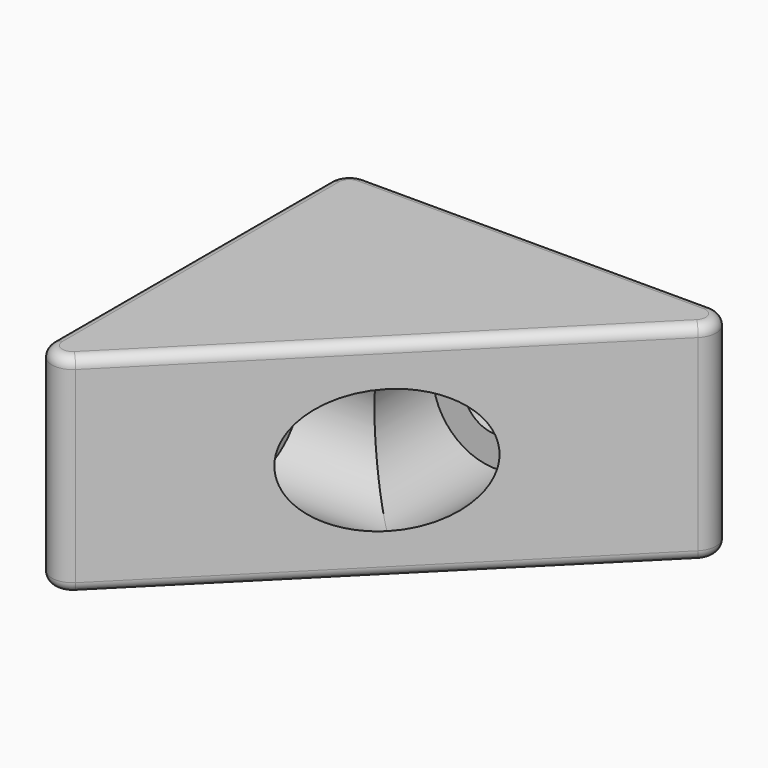
from build123d import *

# Parameters (mm, degrees)
SKETCH_W        = 40
SKETCH_H        = 40
PAD_DEPTH       = 20
SKETCH001_R     = 6
POCKET_DEPTH    = 33
SKETCH002_R     = 3.1
POCKET001_DEPTH = 8
SKETCH003_R     = 6
POCKET002_DEPTH = 33
SKETCH004_R     = 3.1
POCKET003_DEPTH = 8
POCKET004_DEPTH = 25
FILLET_R        = 2
FILLET001_R     = 2
FILLET002_R     = 2
FILLET003_R     = 1
FILLET004_R     = 1


with BuildPart() as part:
    # Sketch → Pad (new body)
    with BuildSketch(Plane.XY):
        with Locations((20, 20)):
            Rectangle(SKETCH_W, SKETCH_H)
    extrude(amount=PAD_DEPTH)

    # Sketch001 → Pocket (cut)
    with BuildSketch(Plane.XZ):
        with Locations((20, 10)):
            Circle(SKETCH001_R)
    extrude(amount=-POCKET_DEPTH, mode=Mode.SUBTRACT)

    # Sketch002 → Pocket001 (cut)
    with BuildSketch(Plane.XZ.offset(-33)):
        with Locations((20, 10)):
            Circle(SKETCH002_R)
    extrude(amount=-POCKET001_DEPTH, mode=Mode.SUBTRACT)

    # Sketch003 → Pocket002 (cut)
    with BuildSketch(Plane.YZ.offset(40)):
        with Locations((20, 10)):
            Circle(SKETCH003_R)
    extrude(amount=-POCKET002_DEPTH, mode=Mode.SUBTRACT)

    # Sketch004 → Pocket003 (cut)
    with BuildSketch(Plane.YZ.offset(7)):
        with Locations((20, 10)):
            Circle(SKETCH004_R)
    extrude(amount=-POCKET003_DEPTH, mode=Mode.SUBTRACT)

    # Sketch005 → Pocket004 (cut)
    with BuildSketch(Plane.XY.offset(20)):
        Polygon((0, 0), (40, 40), (40, 0), align=None)
    extrude(amount=-POCKET004_DEPTH, mode=Mode.SUBTRACT)

    # Fillet
    fillet_edges = [part.edges().sort_by_distance(p)[0] for p in [
        (40, 40, 10),
    ]]
    fillet(fillet_edges, radius=FILLET_R)

    # Fillet001
    fillet001_edges = [part.edges().sort_by_distance(p)[0] for p in [
        (0, 0, 10),
    ]]
    fillet(fillet001_edges, radius=FILLET001_R)

    # Fillet002
    fillet002_edges = [part.edges().sort_by_distance(p)[0] for p in [
        (0, 40, 10),
    ]]
    fillet(fillet002_edges, radius=FILLET002_R)

    # Fillet003
    fillet003_edges = [part.edges().sort_by_distance(p)[0] for p in [
        (0, 21.414214, 0),
        (0.585786, 39.414214, 0),
        (1.234633, 2.980668, 0),
        (18.585786, 40, 0),
        (20, 20, 0),
        (37.019332, 38.765367, 0),
    ]]
    fillet(fillet003_edges, radius=FILLET003_R)

    # Fillet004
    fillet004_edges = [part.edges().sort_by_distance(p)[0] for p in [
        (0, 21.414214, 20),
        (0.585786, 39.414214, 20),
        (1.234633, 2.980668, 20),
        (18.585786, 40, 20),
        (20, 20, 20),
        (37.019332, 38.765367, 20),
    ]]
    fillet(fillet004_edges, radius=FILLET004_R)


solid = part.part
